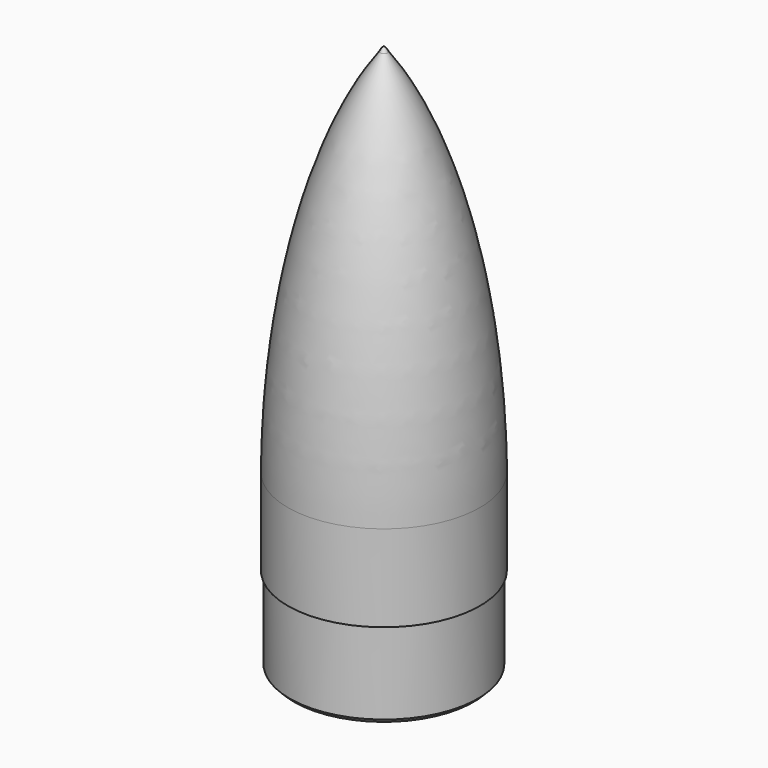
from build123d import *

# Parameters (mm, degrees)
F2_SIZE = 1.5


with BuildPart() as f1:
    # F0 (on Front) → F1 (revolve)
    with BuildSketch(Plane.XZ):
        with BuildLine():
            ThreePointArc((0, 61.2500731986), (-0.7487254856, 60.4978384828), (-1.2765385233, 59.5770451738))
            add(Edge.make_bspline(
                [(-1.2765385233, 59.5770451738), (-32.7661807976, 17.1532569546), (-33.3, -68.7499268014)],
                knots=[0.5231788864, 0.5231788864, 0.5231788864, 1.5951998253, 1.5951998253, 1.5951998253], degree=2, weights=[1, 0.8597530114, 1]))
            Line((-33.3, -68.7499268014), (-33.3, -98.7499268014))
            Line((-33.3, -98.7499268014), (-32.6, -98.7499268014))
            Line((-32.6, -98.7499268014), (-32.6, -128.7853121758))
            Line((-32.6, -128.7853121758), (0, -128.7853121758))
            Line((0, -128.7853121758), (0, -98.7499268014))
            Line((0, -98.7499268014), (0, -68.7499268014))
            Line((0, -68.7499268014), (0, 61.2500731986))
        make_face()
    revolve(axis=Axis((0, 0, 9.1068005099), (0, 0, 1)))

    # F2
    f2_edges = [f1.edges().sort_by_distance(p)[0] for p in [
        (32.6, 0, -128.785312),
    ]]
    chamfer(f2_edges, length=F2_SIZE)


solid = f1.part
